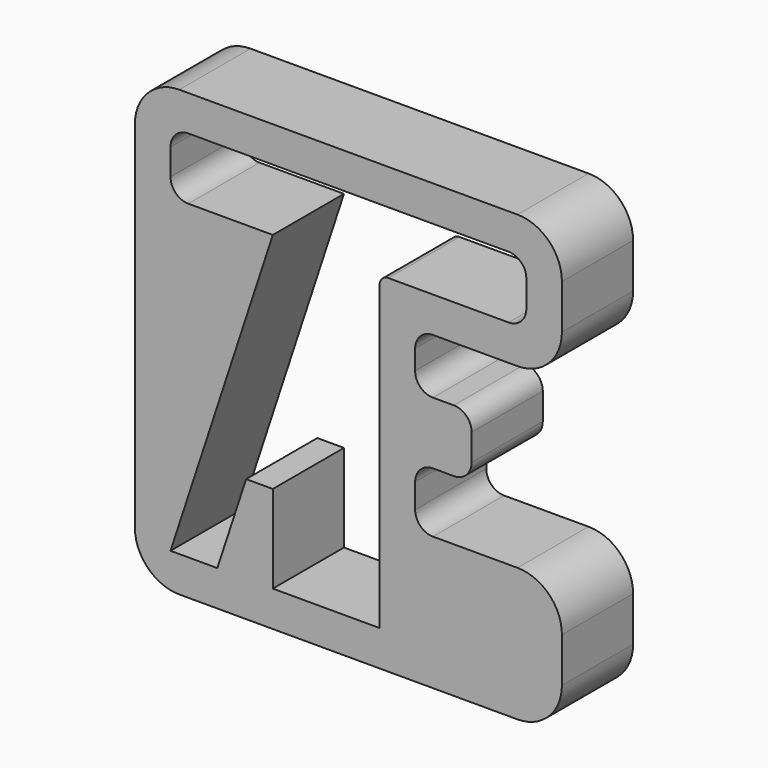
from build123d import *

# Parameters (mm, degrees)
F1_DEPTH = 10
F2_R     = 2
F3_R     = 5
F4_R     = 2
F5_R     = 1


with BuildPart() as f1:
    # F0 (on Front) → F1 (new body)
    with BuildSketch(Plane.XZ):
        Polygon((27.5, 12.135083), (27.5, 27.135083), (-20.5, 27.135083), (-20.5, -22.821047), (27.5, -22.821047), (27.5, -7.821047), (11, -7.821047), (11, -1.069367), (17.350806, -1.069367), (17.350806, 5.930633), (11, 5.930633), (11, 12.135083), align=None)
        Polygon((-16.5, -18.821047), (-5, 16.178953), (-16.5, 16.178953), (-16.5, 23.135083), (23.5, 23.135083), (23.5, 16.135083), (7, 16.135083), (7, -18.821047), (0, -18.821047), (-5, -18.821047), (-5, -8.961161), (-7.997341, -8.961161), (-11.237018, -18.821047), align=None, mode=Mode.SUBTRACT)
    extrude(amount=F1_DEPTH)

    # F2
    f2_edges = [f1.edges().sort_by_distance(p)[0] for p in [
        (-16.5, -5, 23.135083),
        (-16.5, -5, 16.178953),
        (23.5, -5, 23.135083),
        (23.5, -5, 16.135083),
    ]]
    fillet(f2_edges, radius=F2_R)

    # F3
    f3_edges = [f1.edges().sort_by_distance(p)[0] for p in [
        (-20.5, -5, 27.135083),
        (27.5, -5, 27.135083),
        (27.5, -5, 12.135083),
        (-20.5, -5, -22.821047),
        (27.5, -5, -22.821047),
        (27.5, -5, -7.821047),
    ]]
    fillet(f3_edges, radius=F3_R)

    # F4
    f4_edges = [f1.edges().sort_by_distance(p)[0] for p in [
        (11, -5, 12.135083),
        (11, -5, 5.930633),
        (17.350806, -5, 5.930633),
        (17.350806, -5, -1.069367),
        (11, -5, -1.069367),
        (11, -5, -7.821047),
    ]]
    fillet(f4_edges, radius=F4_R)

    # F5
    f5_edges = [f1.edges().sort_by_distance(p)[0] for p in [
        (7, -5, 16.135083),
    ]]
    fillet(f5_edges, radius=F5_R)


solid = f1.part
